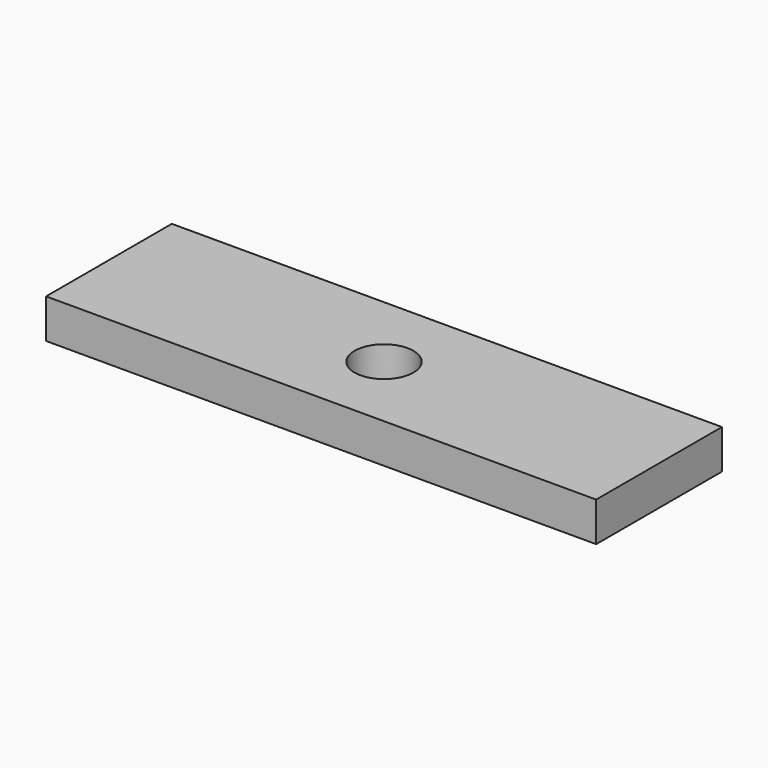
from build123d import *

# Parameters (mm, degrees)
SKETCH_W  = 140
SKETCH_H  = 40
SKETCH_R  = 7.5
PAD_DEPTH = 10


with BuildPart() as part:
    # Sketch → Pad (new body)
    with BuildSketch(Plane.XY):
        Rectangle(SKETCH_W, SKETCH_H)
        Circle(SKETCH_R, mode=Mode.SUBTRACT)
    extrude(amount=PAD_DEPTH)


solid = part.part
